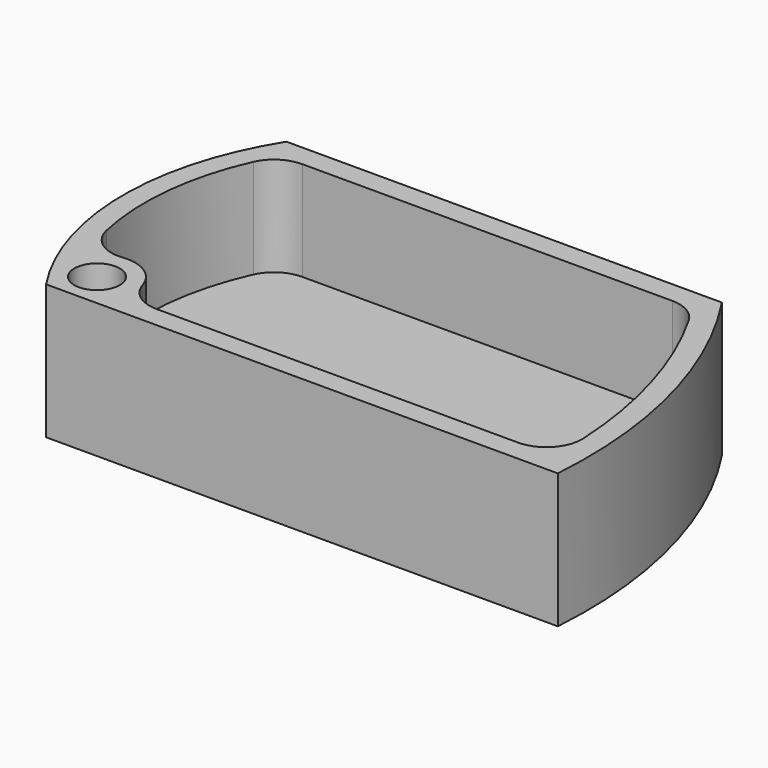
from build123d import *

# Parameters (mm, degrees)
F0_R     = 3.2
F1_DEPTH = 19
F2_DEPTH = 5


with BuildPart() as f1:
    # F0 (on Top) → F1 (new body)
    with BuildSketch(Plane.XY):
        with BuildLine():
            Line((-16.083093, 46.314633), (-77.51673, 46.314633))
            ThreePointArc((-77.51673, 46.314633), (-83.608573, 24.668741), (-76.936605, 3.194569))
            Line((-76.936605, 3.194569), (-4.737342, 3.194569))
            ThreePointArc((-4.737342, 3.194569), (-6.8374, 25.694681), (-16.083093, 46.314633))
        make_face()
        with Locations((-73.675402, 8.108267)):
            Circle(F0_R, mode=Mode.SUBTRACT)
        with BuildLine():
            ThreePointArc((-77.366346, 40.272824), (-75.521531, 42.415285), (-72.809609, 43.214634))
            Line((-72.809609, 43.214634), (-20.607641, 43.214634))
            ThreePointArc((-20.607641, 43.214634), (-18.091299, 42.535285), (-16.258748, 40.681845))
            ThreePointArc((-16.258748, 40.681845), (-10.294291, 26.562128), (-7.746958, 11.447491))
            ThreePointArc((-7.746958, 11.447491), (-9.116704, 7.749617), (-12.740557, 6.194569))
            Line((-12.740557, 6.194569), (-63.759234, 6.194569))
            ThreePointArc((-63.759234, 6.194569), (-66.72323, 7.167817), (-68.533345, 9.708678))
            ThreePointArc((-68.533345, 9.708678), (-70.739665, 12.623078), (-74.298513, 13.457453))
            ThreePointArc((-74.298513, 13.457453), (-77.779678, 14.352671), (-79.760766, 17.351873))
            ThreePointArc((-79.760766, 17.351873), (-80.414005, 29.005654), (-77.366346, 40.272824))
        make_face(mode=Mode.SUBTRACT)
    extrude(amount=F1_DEPTH)

    # F0 (on Top) → F2 (join)
    with BuildSketch(Plane.XY):
        with BuildLine():
            Line((-20.607641, 43.214634), (-72.809609, 43.214634))
            ThreePointArc((-72.809609, 43.214634), (-75.521531, 42.415285), (-77.366346, 40.272824))
            ThreePointArc((-77.366346, 40.272824), (-80.414005, 29.005654), (-79.760766, 17.351873))
            ThreePointArc((-79.760766, 17.351873), (-77.779678, 14.352671), (-74.298513, 13.457453))
            ThreePointArc((-74.298513, 13.457453), (-70.739665, 12.623078), (-68.533345, 9.708678))
            ThreePointArc((-68.533345, 9.708678), (-66.72323, 7.167817), (-63.759234, 6.194569))
            Line((-63.759234, 6.194569), (-12.740557, 6.194569))
            ThreePointArc((-12.740557, 6.194569), (-9.116704, 7.749617), (-7.746958, 11.447491))
            ThreePointArc((-7.746958, 11.447491), (-10.294291, 26.562128), (-16.258748, 40.681845))
            ThreePointArc((-16.258748, 40.681845), (-18.091299, 42.535285), (-20.607641, 43.214634))
        make_face()
    extrude(amount=F2_DEPTH)


solid = f1.part
